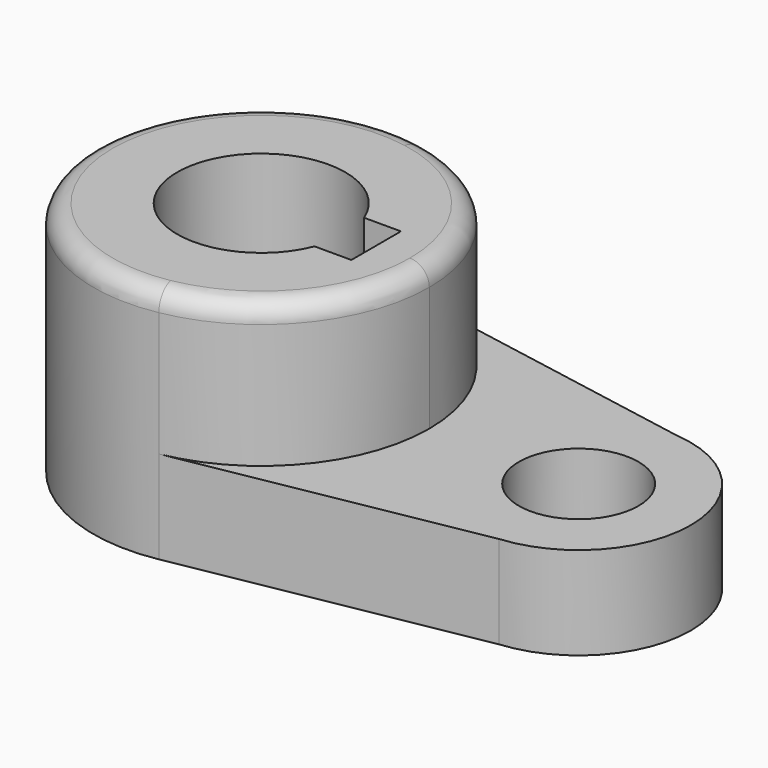
from build123d import *

# Parameters (mm, degrees)
F1_DEPTH = 40.2336
F0_R     = 10.16
F2_DEPTH = 15.7734
F3_R     = 3.302


with BuildPart() as f1:
    # F0 (on Top) → F1 (new body)
    with BuildSketch(Plane.XY):
        with BuildLine():
            ThreePointArc((-38.632684, -28.118692), (-21.788691, -18.319272), (-15.143919, 0))
            ThreePointArc((-15.143919, 0), (-21.788691, 18.319272), (-38.632684, 28.118692))
            ThreePointArc((-38.632684, 28.118692), (-72.293919, 0), (-38.632684, -28.118692))
        make_face()
        with BuildLine():
            ThreePointArc((-30.439394, -5.271326), (-58.006419, 0), (-30.439394, 5.271326))
            Line((-30.439394, 5.271326), (-24.181643, 5.271326))
            Line((-24.181643, 5.271326), (-24.181643, -5.271326))
            Line((-24.181643, -5.271326), (-30.439394, -5.271326))
        make_face(mode=Mode.SUBTRACT)
    extrude(amount=F1_DEPTH)

    # F0 (on Top) → F2 (join)
    with BuildSketch(Plane.XY):
        with BuildLine():
            ThreePointArc((-38.632684, -28.118692), (-21.788691, -18.319272), (-15.143919, 0))
            ThreePointArc((-15.143919, 0), (-21.788691, 18.319272), (-38.632684, 28.118692))
            ThreePointArc((-38.632684, 28.118692), (-72.293919, 0), (-38.632684, -28.118692))
        make_face()
        with BuildLine():
            ThreePointArc((-30.439394, -5.271326), (-58.006419, 0), (-30.439394, 5.271326))
            Line((-30.439394, 5.271326), (-24.181643, 5.271326))
            Line((-24.181643, 5.271326), (-24.181643, -5.271326))
            Line((-24.181643, -5.271326), (-30.439394, -5.271326))
        make_face(mode=Mode.SUBTRACT)
        with BuildLine():
            ThreePointArc((-38.632684, 28.118692), (-21.788691, 18.319272), (-15.143919, 0))
            ThreePointArc((-15.143919, 0), (-21.788691, -18.319272), (-38.632684, -28.118692))
            Line((-38.632684, -28.118692), (11.891298, -18.979688))
            ThreePointArc((11.891298, -18.979688), (29.306081, 0), (11.891298, 18.979688))
            Line((11.891298, 18.979688), (-38.632684, 28.118692))
        make_face()
        with Locations((10.256081, 0)):
            Circle(F0_R, mode=Mode.SUBTRACT)
    extrude(amount=F2_DEPTH)

    # F3
    f3_edges = [f1.edges().sort_by_distance(p)[0] for p in [
        (-48.805153, 28.118692, 40.2336),
    ]]
    fillet(f3_edges, radius=F3_R)


solid = f1.part
